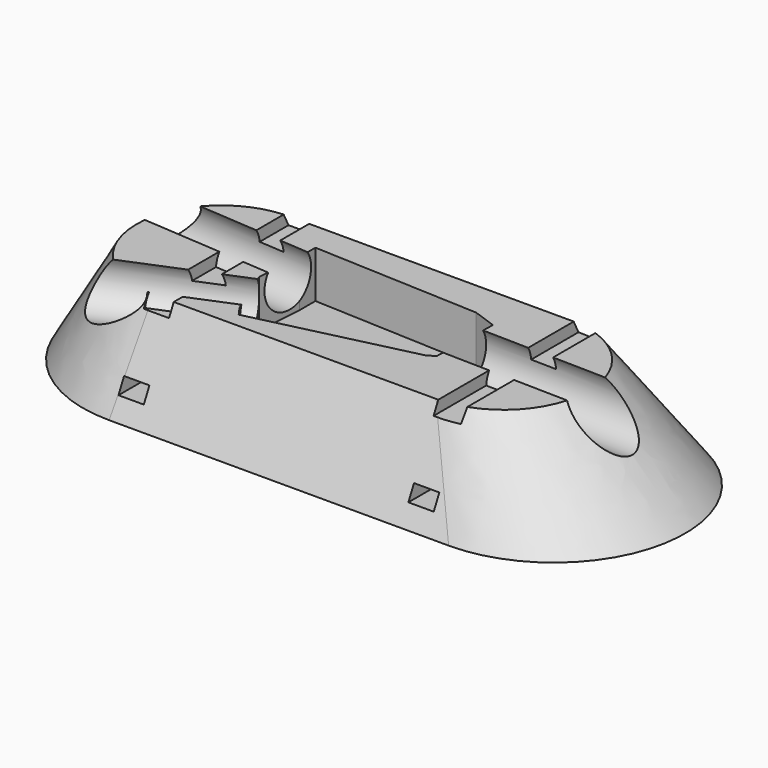
from build123d import *

# Parameters (mm, degrees)
SKETCH008_W     = 2.7
SKETCH008_H     = 1.5
PAD_DEPTH       = 20
POCKET_DEPTH    = 5
SKETCH005_R     = 2.917562
POCKET001_DEPTH = 20.6489723154
SKETCH006_R     = 2.917562
POCKET002_DEPTH = 23.0482544438
SKETCH007_R     = 3
POCKET003_DEPTH = 24.3072127265
SKETCH009_R     = 1
POCKET004_DEPTH = 3


with BuildPart() as pad:
    # Sketch008 → Pad (new body, symmetric)
    with BuildSketch(Plane.XZ):
        with Locations((20.330902, 2.75)):
            Rectangle(SKETCH008_W, SKETCH008_H)
        with Locations((-10.535928, 2.75)):
            Rectangle(SKETCH008_W, SKETCH008_H)
        with Locations((-10.535928, 9.489349)):
            Rectangle(SKETCH008_W, SKETCH008_H)
        with Locations((20.330902, 9.48935)):
            Rectangle(SKETCH008_W, SKETCH008_H)
    extrude(amount=PAD_DEPTH, both=True)


with BuildPart() as pocket004:
    # Sketch002 → Loft section 0
    with BuildSketch(Plane.XY.offset(10)):
        with BuildLine():
            ThreePointArc((-11.343506, 11.1193269091), (-20.3555434545, 2.1072894545), (-11.343506, -6.904748))
            Line((-11.343506, -6.904748), (18.7414073452, -6.904748))
            ThreePointArc((18.7414073452, -6.904748), (27.7534447997, 2.1072894545), (18.7414073452, 11.1193269091))
            Line((-11.343506, 11.1193269091), (18.7414073452, 11.1193269091))
        make_face()
    # Sketch003 → Loft section 1
    with BuildSketch(Plane.XY):
        with BuildLine():
            ThreePointArc((-12.0831570349, 16.0971179095), (-26.0729854896, 2.1072894547), (-12.0831570349, -11.882539))
            Line((-12.0831570349, -11.882539), (24.0627546777, -11.882539))
            ThreePointArc((24.0627546777, -11.882539), (38.0525831324, 2.1072894547), (24.0627546777, 16.0971179095))
            Line((-12.0831570349, 16.0971179095), (24.0627546777, 16.0971179095))
        make_face()
    loft()

    # Sketch001 → Pocket (cut)
    with BuildSketch(Plane.XY.offset(10)):
        Polygon((-6.094202, 5.983397), (-6.094202, 8.088668), (11.634386, 7.313041), (14.1254, 6.42784), (13.97268, -0.847062), (13.185631, -1.329644), (-3.545716, -5.318575), (-4.282123, -4.272569), (-6.45014, 0.995308), align=None)
    extrude(amount=-POCKET_DEPTH, mode=Mode.SUBTRACT)

    # Sketch005 → Pocket001 (cut, through all)
    with BuildSketch(Plane(origin=(-6.4881258553, 0.462977012, 0), x_dir=(0.0711766059, 0.9974637291, 0), z_dir=(0.9974637291, -0.0711766059, 0))):
        with Locations((4.141323, 8.428433)):
            Circle(SKETCH005_R)
    extrude(amount=-POCKET001_DEPTH, mode=Mode.SUBTRACT)

    # Sketch006 → Pocket002 (cut, through all)
    with BuildSketch(Plane(origin=(-5.1655859853, -2.1259187014, 0), x_dir=(-0.3805833694, 0.9247466134, 0), z_dir=(0.9247466134, 0.3805833694, 0))):
        with Locations((0.622215, 8.350686)):
            Circle(SKETCH006_R)
    extrude(amount=-POCKET002_DEPTH, mode=Mode.SUBTRACT)

    # Sketch007 → Pocket003 (cut, through all)
    with BuildSketch(Plane(origin=(13.9842993352, -0.2935685174, 0), x_dir=(-0.0209880985, -0.9997797256, 0), z_dir=(-0.9997797256, 0.0209880985, 0))):
        with Locations((-2.85774, 8.49941)):
            Circle(SKETCH007_R)
    extrude(amount=-POCKET003_DEPTH, mode=Mode.SUBTRACT)

    # Cut002: cut Pad
    add(pad.part, mode=Mode.SUBTRACT)

    # Sketch009 → Pocket004 (cut)
    with BuildSketch(Plane(origin=(0, 0, 0), x_dir=(1, 0, 0), z_dir=(0, 0, -1))):
        with Locations((-17.030491, -0.580481)):
            Circle(SKETCH009_R)
        with Locations((28.573694, 1.424915)):
            Circle(SKETCH009_R)
    extrude(amount=-POCKET004_DEPTH, mode=Mode.SUBTRACT)


solid = pocket004.part
